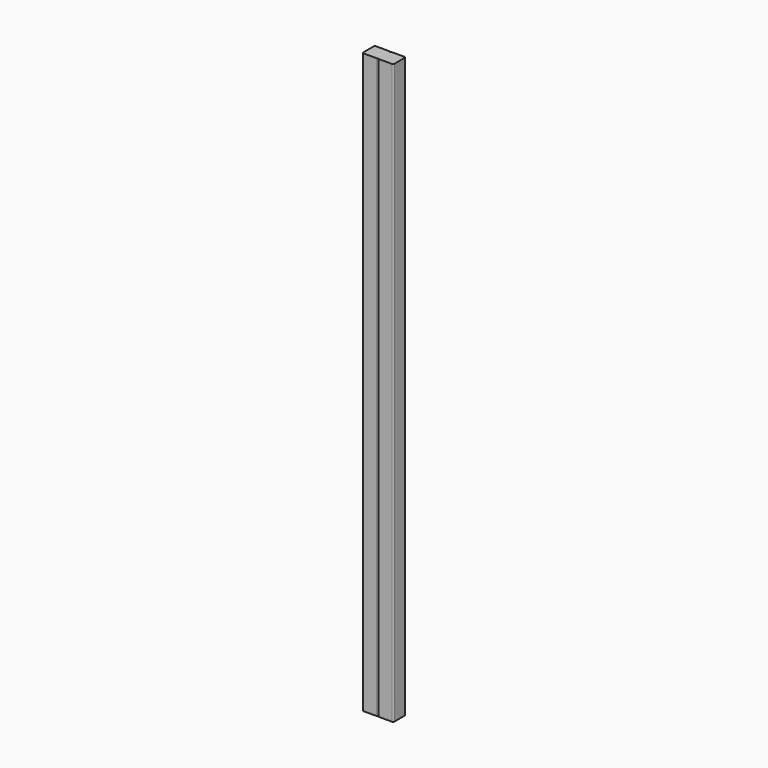
from build123d import *

# Parameters (mm, degrees)
F1_DEPTH = 1422.4


with BuildPart() as f1:
    # F0 (on Top) → F1 (new body)
    with BuildSketch(Plane.XY):
        with BuildLine():
            ThreePointArc((38.1, 15.875), (37.170064, 18.120064), (34.925, 19.05))
            Line((34.925, 19.05), (3.175, 19.05))
            ThreePointArc((3.175, 19.05), (0.929936, 18.120064), (0, 15.875))
            Line((0, 15.875), (0, -15.875))
            ThreePointArc((0, -15.875), (0.929936, -18.120064), (3.175, -19.05))
            Line((3.175, -19.05), (34.925, -19.05))
            ThreePointArc((34.925, -19.05), (37.170064, -18.120064), (38.1, -15.875))
            Line((38.1, -15.875), (38.1, 15.875))
        make_face()
        with BuildLine():
            Line((0, -15.875), (0, 15.875))
            ThreePointArc((0, 15.875), (-0.929936, 18.120064), (-3.175, 19.05))
            Line((-3.175, 19.05), (-34.925, 19.05))
            ThreePointArc((-34.925, 19.05), (-37.170064, 18.120064), (-38.1, 15.875))
            Line((-38.1, 15.875), (-38.1, -15.875))
            ThreePointArc((-38.1, -15.875), (-37.170064, -18.120064), (-34.925, -19.05))
            Line((-34.925, -19.05), (-3.175, -19.05))
            ThreePointArc((-3.175, -19.05), (-0.929936, -18.120064), (0, -15.875))
        make_face()
    extrude(amount=F1_DEPTH)


solid = f1.part
